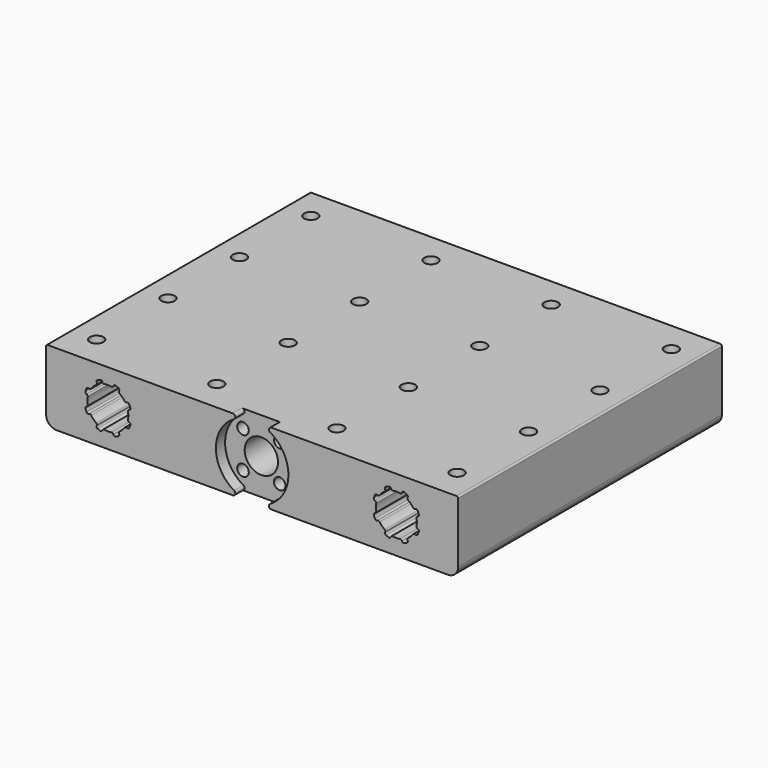
from build123d import *

# Parameters (mm, degrees)
F0_W      = 127
F0_H      = 22.225
F0_R      = 6.2992
F0_R_2    = 5.1435
F1_DEPTH  = 101.6
F2_R      = 3.175
F3_R      = 1.778
F4_DEPTH  = 101.601
F5_R      = 2.0955
F6_DEPTH  = 25.4
F8_DEPTH  = 101.601
F9_R      = 0.508
F10_R     = 0.508
F11_R     = 0.508
F12_R     = 11.176
F13_DEPTH = 3.556
F14_R     = 0.762


with BuildPart() as f1:
    # F0 (on Front) → F1 (new body)
    with BuildSketch(Plane.XZ):
        Rectangle(F0_W, F0_H)
        with Locations((-44.45, 0)):
            Circle(F0_R, mode=Mode.SUBTRACT)
        Circle(F0_R_2, mode=Mode.SUBTRACT)
        with Locations((44.45, 0)):
            Circle(F0_R, mode=Mode.SUBTRACT)
    extrude(amount=F1_DEPTH)

    # F2
    f2_edges = [f1.edges().sort_by_distance(p)[0] for p in [
        (-63.5, -50.8, -11.1125),
        (63.5, -50.8, -11.1125),
    ]]
    fillet(f2_edges, radius=F2_R)

    # F3 (on face) → F4 (cut, through all)
    with BuildSketch(Plane.XZ.offset(101.6)):
        with Locations((-5.6568542495, 5.6568542495)):
            Circle(F3_R)
        with Locations((5.6568542495, 5.6568542495)):
            Circle(F3_R)
        with Locations((5.6568542495, -5.6568542495)):
            Circle(F3_R)
        with Locations((-5.6568542495, -5.6568542495)):
            Circle(F3_R)
    extrude(amount=-F4_DEPTH, mode=Mode.SUBTRACT)

    # F5 (on face) → F6 (cut)
    with BuildSketch(Plane.XY.offset(11.1125)):
        with Locations((-55.5625, -9.525)):
            Circle(F5_R)
        with Locations((-55.5625, -37.0332)):
            Circle(F5_R)
        with Locations((-55.5625, -64.5414)):
            Circle(F5_R)
        with Locations((-55.5625, -92.0496)):
            Circle(F5_R)
        with Locations((-18.5293, -9.525)):
            Circle(F5_R)
        with Locations((-18.5293, -37.0332)):
            Circle(F5_R)
        with Locations((-18.5293, -64.5414)):
            Circle(F5_R)
        with Locations((-18.5293, -92.0496)):
            Circle(F5_R)
        with Locations((18.5039, -9.525)):
            Circle(F5_R)
        with Locations((18.5039, -37.0332)):
            Circle(F5_R)
        with Locations((18.5039, -64.5414)):
            Circle(F5_R)
        with Locations((18.5039, -92.0496)):
            Circle(F5_R)
        with Locations((55.5371, -9.525)):
            Circle(F5_R)
        with Locations((55.5371, -37.0332)):
            Circle(F5_R)
        with Locations((55.5371, -64.5414)):
            Circle(F5_R)
        with Locations((55.5371, -92.0496)):
            Circle(F5_R)
    extrude(amount=-F6_DEPTH, mode=Mode.SUBTRACT)

    # F7 (on face) → F8 (cut, through all)
    with BuildSketch(Plane.XZ.offset(101.6)):
        Polygon((-46.2099905094, 1.7599905094), (-50.8321243168, 3.6745410196), (-51.5611362555, 1.9145505101), (-46.9390024481, 0), (-45.694501224, 0.5154892854), align=None)
        Polygon((-48.1245410196, 6.3821243168), (-46.2099905094, 1.7599905094), (-44.9654892854, 1.244501224), (-44.45, 2.4890024481), (-46.3645505101, 7.1111362555), align=None)
        Polygon((-44.9654892854, 1.244501224), (-46.2099905094, 1.7599905094), (-45.694501224, 0.5154892854), (-45.1790119387, 0.7290119387), align=None)
        Polygon((-44.45, 2.4890024481), (-44.9654892854, 1.244501224), (-44.45, 1.0309785708), (-43.9345107146, 1.244501224), align=None)
        Polygon((-45.4809785708, 0), (-45.694501224, 0.5154892854), (-46.9390024481, 0), (-45.694501224, -0.5154892854), align=None)
        Polygon((-45.694501224, -0.5154892854), (-46.9390024481, 0), (-51.5611362555, -1.9145505101), (-50.8321243168, -3.6745410196), (-46.2099905094, -1.7599905094), align=None)
        Polygon((-42.5354494899, 7.1111362555), (-44.45, 2.4890024481), (-43.9345107146, 1.244501224), (-42.6900094906, 1.7599905094), (-40.7754589804, 6.3821243168), align=None)
        Polygon((-45.1790119387, -0.7290119387), (-45.694501224, -0.5154892854), (-46.2099905094, -1.7599905094), (-44.9654892854, -1.244501224), align=None)
        Polygon((-43.9345107146, 1.244501224), (-43.7209880613, 0.7290119387), (-43.205498776, 0.5154892854), (-42.6900094906, 1.7599905094), align=None)
        Polygon((-44.9654892854, -1.244501224), (-46.2099905094, -1.7599905094), (-48.1245410196, -6.3821243168), (-46.3645505101, -7.1111362555), (-44.45, -2.4890024481), align=None)
        Polygon((-42.6900094906, 1.7599905094), (-43.205498776, 0.5154892854), (-41.9609975519, 0), (-37.3388637445, 1.9145505101), (-38.0678756832, 3.6745410196), align=None)
        Polygon((-41.9609975519, 0), (-43.205498776, 0.5154892854), (-43.4190214292, 0), (-43.205498776, -0.5154892854), align=None)
        Polygon((-43.9345107146, -1.244501224), (-44.45, -1.0309785708), (-44.9654892854, -1.244501224), (-44.45, -2.4890024481), align=None)
        Polygon((-37.3388637445, -1.9145505101), (-41.9609975519, 0), (-43.205498776, -0.5154892854), (-42.6900094906, -1.7599905094), (-38.0678756832, -3.6745410196), align=None)
        Polygon((-42.6900094906, -1.7599905094), (-43.205498776, -0.5154892854), (-43.7209880613, -0.7290119387), (-43.9345107146, -1.244501224), align=None)
        Polygon((-42.6900094906, -1.7599905094), (-43.9345107146, -1.244501224), (-44.45, -2.4890024481), (-42.5354494899, -7.1111362555), (-40.7754589804, -6.3821243168), align=None)
        Polygon((38.0678756832, 3.6745410196), (37.3388637445, 1.9145505101), (41.9609975519, 0), (43.205498776, 0.5154892854), (42.6900094906, 1.7599905094), align=None)
        Polygon((43.205498776, 0.5154892854), (41.9609975519, 0), (43.205498776, -0.5154892854), (43.4190214292, 0), align=None)
        Polygon((43.205498776, -0.5154892854), (41.9609975519, 0), (37.3388637445, -1.9145505101), (38.0678756832, -3.6745410196), (42.6900094906, -1.7599905094), align=None)
        Polygon((43.7209880613, -0.7290119387), (43.205498776, -0.5154892854), (42.6900094906, -1.7599905094), (43.9345107146, -1.244501224), align=None)
        Polygon((42.6900094906, 1.7599905094), (43.205498776, 0.5154892854), (43.7209880613, 0.7290119387), (43.9345107146, 1.244501224), align=None)
        Polygon((40.7754589804, 6.3821243168), (42.6900094906, 1.7599905094), (43.9345107146, 1.244501224), (44.45, 2.4890024481), (42.5354494899, 7.1111362555), align=None)
        Polygon((43.9345107146, -1.244501224), (42.6900094906, -1.7599905094), (40.7754589804, -6.3821243168), (42.5354494899, -7.1111362555), (44.45, -2.4890024481), align=None)
        Polygon((44.45, 2.4890024481), (43.9345107146, 1.244501224), (44.45, 1.0309785708), (44.9654892854, 1.244501224), align=None)
        Polygon((44.9654892854, -1.244501224), (44.45, -1.0309785708), (43.9345107146, -1.244501224), (44.45, -2.4890024481), align=None)
        Polygon((46.3645505101, 7.1111362555), (44.45, 2.4890024481), (44.9654892854, 1.244501224), (46.2099905094, 1.7599905094), (48.1245410196, 6.3821243168), align=None)
        Polygon((45.1790119387, -0.7290119387), (44.9654892854, -1.244501224), (46.2099905094, -1.7599905094), (45.694501224, -0.5154892854), align=None)
        Polygon((46.2099905094, -1.7599905094), (44.9654892854, -1.244501224), (44.45, -2.4890024481), (46.3645505101, -7.1111362555), (48.1245410196, -6.3821243168), align=None)
        Polygon((46.2099905094, 1.7599905094), (44.9654892854, 1.244501224), (45.1790119387, 0.7290119387), (45.694501224, 0.5154892854), align=None)
        Polygon((45.694501224, -0.5154892854), (46.2099905094, -1.7599905094), (50.8321243168, -3.6745410196), (51.5611362555, -1.9145505101), (46.9390024481, 0), align=None)
        Polygon((45.4809785708, 0), (45.694501224, -0.5154892854), (46.9390024481, 0), (45.694501224, 0.5154892854), align=None)
        Polygon((50.8321243168, 3.6745410196), (46.2099905094, 1.7599905094), (45.694501224, 0.5154892854), (46.9390024481, 0), (51.5611362555, 1.9145505101), align=None)
    extrude(amount=-F8_DEPTH, mode=Mode.SUBTRACT)

    # F9
    f9_edges = [f1.edges().sort_by_distance(p)[0] for p in [
        (-42.947114, -50.8, 6.117291),
        (-45.952886, -50.8, 6.117291),
        (-46.364551, -50.8, 7.111136),
        (-48.124541, -50.8, 6.382124),
        (-47.712877, -50.8, 5.388279),
        (-49.838279, -50.8, 3.262877),
        (-50.832124, -50.8, 3.674541),
        (-51.561136, -50.8, 1.914551),
        (-50.567291, -50.8, 1.502886),
        (-50.567291, -50.8, -1.502886),
        (-51.561136, -50.8, -1.914551),
        (-50.832124, -50.8, -3.674541),
        (-49.838279, -50.8, -3.262877),
        (-48.124541, -50.8, -6.382124),
        (-47.712877, -50.8, -5.388279),
        (-46.364551, -50.8, -7.111136),
        (-45.952886, -50.8, -6.117291),
        (-42.535449, -50.8, -7.111136),
        (-42.947114, -50.8, -6.117291),
        (-40.775459, -50.8, -6.382124),
        (-41.187123, -50.8, -5.388279),
        (-38.067876, -50.8, -3.674541),
        (-39.061721, -50.8, -3.262877),
        (-37.338864, -50.8, -1.914551),
        (-38.332709, -50.8, -1.502886),
        (-38.332709, -50.8, 1.502886),
        (-37.338864, -50.8, 1.914551),
        (-38.067876, -50.8, 3.674541),
        (-39.061721, -50.8, 3.262877),
        (-40.775459, -50.8, 6.382124),
        (-41.187123, -50.8, 5.388279),
        (-42.535449, -50.8, 7.111136),
    ]]
    fillet(f9_edges, radius=F9_R)

    # F10
    f10_edges = [f1.edges().sort_by_distance(p)[0] for p in [
        (46.364551, -50.8, -7.111136),
        (45.952886, -50.8, -6.117291),
        (42.947114, -50.8, -6.117291),
        (41.187123, -50.8, -5.388279),
        (40.775459, -50.8, -6.382124),
        (39.061721, -50.8, -3.262877),
        (38.067876, -50.8, -3.674541),
        (47.712877, -50.8, -5.388279),
        (48.124541, -50.8, -6.382124),
        (42.535449, -50.8, -7.111136),
        (37.338864, -50.8, 1.914551),
        (38.332709, -50.8, 1.502886),
        (38.332709, -50.8, -1.502886),
        (37.338864, -50.8, -1.914551),
        (38.067876, -50.8, 3.674541),
        (39.061721, -50.8, 3.262877),
        (40.775459, -50.8, 6.382124),
        (41.187123, -50.8, 5.388279),
        (42.535449, -50.8, 7.111136),
        (42.947114, -50.8, 6.117291),
        (45.952886, -50.8, 6.117291),
        (46.364551, -50.8, 7.111136),
        (48.124541, -50.8, 6.382124),
        (47.712877, -50.8, 5.388279),
        (50.832124, -50.8, 3.674541),
        (49.838279, -50.8, 3.262877),
        (50.567291, -50.8, 1.502886),
        (51.561136, -50.8, 1.914551),
        (51.561136, -50.8, -1.914551),
        (50.567291, -50.8, -1.502886),
        (50.832124, -50.8, -3.674541),
        (49.838279, -50.8, -3.262877),
    ]]
    fillet(f10_edges, radius=F10_R)

    # F11
    f11_edges = [f1.edges().sort_by_distance(p)[0] for p in [
        (-63.5, -50.8, 11.1125),
        (63.5, -50.8, 11.1125),
    ]]
    fillet(f11_edges, radius=F11_R)

    # F12 (on face) → F13 (cut)
    with BuildSketch(Plane.XZ.offset(101.6)):
        Circle(F12_R)
    extrude(amount=-F13_DEPTH, mode=Mode.SUBTRACT)

    # F14
    f14_edges = [f1.edges().sort_by_distance(p)[0] for p in [
        (-1.189672, -99.822, 11.1125),
        (1.189672, -99.822, 11.1125),
        (1.189672, -99.822, -11.1125),
        (-1.189672, -99.822, -11.1125),
    ]]
    fillet(f14_edges, radius=F14_R)


solid = f1.part
